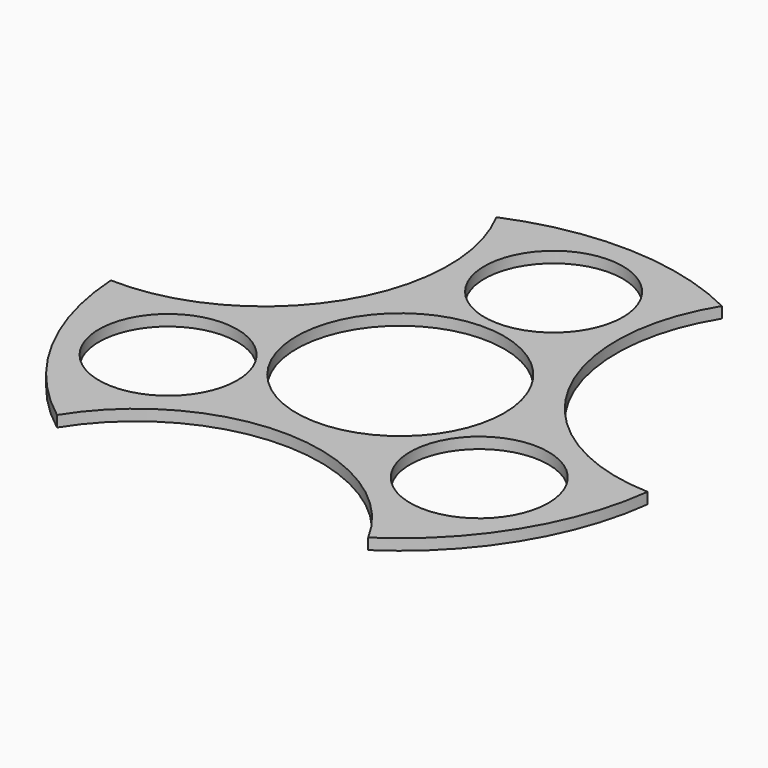
from build123d import *

# Parameters (mm, degrees)
F0_R     = 9.525
F0_R_2   = 14.3129
F1_DEPTH = 1.524


with BuildPart() as f1:
    # F0 (on Top) → F1 (new body)
    with BuildSketch(Plane.XY):
        with BuildLine():
            ThreePointArc((37.810206, -4.69024), (16.224533, 8.697019), (17.025403, 34.08439))
            ThreePointArc((17.025403, 34.08439), (1.201306, 38.081057), (-14.843235, 35.089719))
            ThreePointArc((-14.843235, 35.089719), (-15.644106, 9.702348), (-38.030649, -2.297764))
            ThreePointArc((-38.030649, -2.297764), (-33.579815, -18.000167), (-22.96697, -30.399478))
            ThreePointArc((-22.96697, -30.399478), (-0.580427, -18.399367), (21.005246, -31.786627))
            ThreePointArc((21.005246, -31.786627), (32.37851, -20.080889), (37.810206, -4.69024))
        make_face()
        with Locations((-22.386543, -12.000111)):
            Circle(F0_R, mode=Mode.SUBTRACT)
        with Locations((21.585673, -13.38726)):
            Circle(F0_R, mode=Mode.SUBTRACT)
        Circle(F0_R_2, mode=Mode.SUBTRACT)
        with Locations((0.80087, 25.387371)):
            Circle(F0_R, mode=Mode.SUBTRACT)
    extrude(amount=F1_DEPTH)


solid = f1.part
